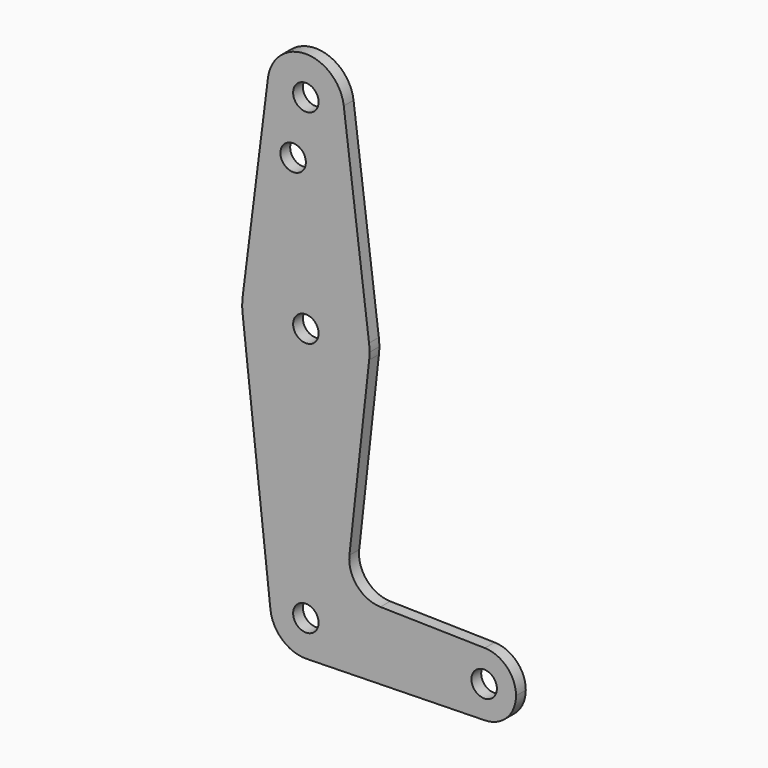
from build123d import *

# Parameters (mm, degrees)
F0_R     = 3.175
F1_DEPTH = 3.048


with BuildPart() as f1:
    # F0 (on Front) → F1 (new body)
    with BuildSketch(Plane.XZ):
        with BuildLine():
            ThreePointArc((0.1905, -8.887959), (6.353174, -6.218463), (8.89, 0))
            ThreePointArc((8.89, 0), (-0.489693, 8.876503), (-8.836052, -0.9779))
            ThreePointArc((-8.836052, -0.9779), (-5.859066, -6.686064), (0.1905, -8.887959))
        make_face()
        Circle(F0_R, mode=Mode.SUBTRACT)
        with BuildLine():
            ThreePointArc((-8.836052, -0.9779), (-0.489693, 8.876503), (8.89, 0))
            ThreePointArc((8.89, 0), (6.353174, -6.218463), (0.1905, -8.887959))
            Line((0.1905, -8.887959), (44.620089, -7.935677))
            ThreePointArc((44.620089, -7.935677), (36.5125, 0), (44.620089, 7.935677))
            Line((44.620089, 7.935677), (18.592309, 8.493544))
            ThreePointArc((18.592309, 8.493544), (12.783419, 11.20224), (10.860716, 17.31644))
            Line((10.860716, 17.31644), (15.778664, 61.75375))
            ThreePointArc((15.778664, 61.75375), (0, 47.625), (-15.778664, 61.75375))
            Line((-15.778664, 61.75375), (-8.836052, -0.9779))
        make_face()
        with BuildLine():
            ThreePointArc((-15.750488, 65.484375), (-15.874547, 63.619893), (-15.778664, 61.75375))
            ThreePointArc((-15.778664, 61.75375), (0, 47.625), (15.778664, 61.75375))
            ThreePointArc((15.778664, 61.75375), (15.850898, 62.625547), (15.875, 63.5))
            ThreePointArc((15.875, 63.5), (15.843841, 64.494139), (15.750488, 65.484375))
            ThreePointArc((15.750488, 65.484375), (0, 79.375), (-15.750488, 65.484375))
        make_face()
        with Locations((0, 63.5)):
            Circle(F0_R, mode=Mode.SUBTRACT)
        with BuildLine():
            ThreePointArc((44.620089, 7.935677), (36.5125, 0), (44.620089, -7.935677))
            ThreePointArc((44.620089, -7.935677), (50.122477, -5.552199), (52.3875, 0))
            ThreePointArc((52.3875, 0), (50.122477, 5.552199), (44.620089, 7.935677))
        make_face()
        with Locations((44.45, 0)):
            Circle(F0_R, mode=Mode.SUBTRACT)
        with BuildLine():
            Line((-9.450293, 115.490625), (-15.750488, 65.484375))
            ThreePointArc((-15.750488, 65.484375), (0, 79.375), (15.750488, 65.484375))
            Line((15.750488, 65.484375), (9.450293, 115.490625))
            ThreePointArc((9.450293, 115.490625), (9.506305, 114.896483), (9.525, 114.3))
            ThreePointArc((9.525, 114.3), (-0.596483, 104.793695), (-9.450293, 115.490625))
        make_face()
        with Locations((-3.175, 100.0252)):
            Circle(F0_R, mode=Mode.SUBTRACT)
        with BuildLine():
            ThreePointArc((9.450293, 115.490625), (0, 123.825), (-9.450293, 115.490625))
            ThreePointArc((-9.450293, 115.490625), (-0.596483, 104.793695), (9.525, 114.3))
            ThreePointArc((9.525, 114.3), (9.506305, 114.896483), (9.450293, 115.490625))
        make_face()
        with Locations((0, 114.3)):
            Circle(F0_R, mode=Mode.SUBTRACT)
    extrude(amount=F1_DEPTH)


solid = f1.part
